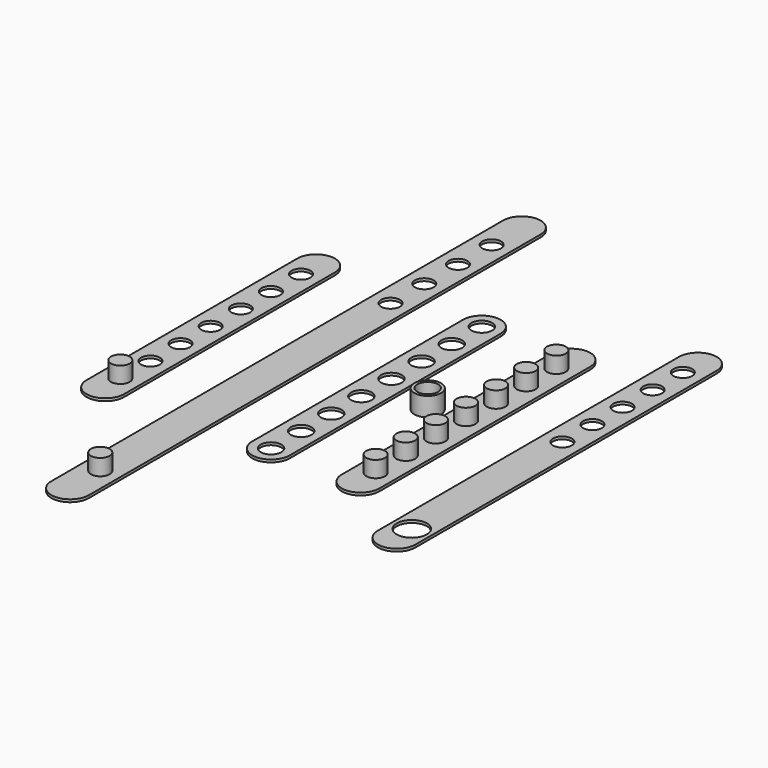
from build123d import *

# Parameters (mm, degrees)
F0_W      = 10
F0_H      = 150
F0_R      = 2.5
F1_DEPTH  = 0.7
F2_DEPTH  = 5
F0_H_2    = 70
F3_DEPTH  = 0.7
F4_DEPTH  = 5
F0_H_3    = 100
F0_R_2    = 4
F5_DEPTH  = 0.7
F0_R_3    = 2.75
F6_DEPTH  = 0.7
F7_DEPTH  = 0.7
F8_DEPTH  = 5
F0_R_4    = 3.55
F9_DEPTH  = 5
F10_DEPTH = 1


with BuildPart() as f1:
    # F0 (on Top) → F1 (new body)
    with BuildSketch(Plane.XY):
        with Locations((-35, 0)):
            Rectangle(F0_W, F0_H)
        with Locations((-35, -65)):
            Circle(F0_R, mode=Mode.SUBTRACT)
        with Locations((-35, 31.4)):
            Circle(F0_R, mode=Mode.SUBTRACT)
        with Locations((-35, 42.6)):
            Circle(F0_R, mode=Mode.SUBTRACT)
        with Locations((-35, 53.8)):
            Circle(F0_R, mode=Mode.SUBTRACT)
        with Locations((-35, 65)):
            Circle(F0_R, mode=Mode.SUBTRACT)
        with BuildLine():
            Line((-30, -75), (-40, -75))
            ThreePointArc((-40, -75), (-35, -80), (-30, -75))
        make_face()
        with BuildLine():
            ThreePointArc((-30, 75), (-35, 80), (-40, 75))
            Line((-40, 75), (-30, 75))
        make_face()
    extrude(amount=F1_DEPTH)

    # F0 (on Top) → F2 (join)
    with BuildSketch(Plane.XY):
        with Locations((-35, -65)):
            Circle(F0_R)
    extrude(amount=F2_DEPTH)


with BuildPart() as f3:
    # F0 (on Top) → F3 (new body)
    with BuildSketch(Plane.XY):
        with BuildLine():
            Line((-62.6663576066, 35), (-52.6663576066, 35))
            ThreePointArc((-52.6663576066, 35), (-57.6663576066, 40), (-62.6663576066, 35))
        make_face()
        with Locations((-57.6663576066, 0)):
            Rectangle(F0_W, F0_H_2)
        with Locations((-57.6663576066, -30)):
            Circle(F0_R, mode=Mode.SUBTRACT)
        with Locations((-57.6663576066, -20)):
            Circle(F0_R, mode=Mode.SUBTRACT)
        with Locations((-57.6663576066, -10)):
            Circle(F0_R, mode=Mode.SUBTRACT)
        with Locations((-57.6663576066, 0)):
            Circle(F0_R, mode=Mode.SUBTRACT)
        with Locations((-57.6663576066, 10)):
            Circle(F0_R, mode=Mode.SUBTRACT)
        with Locations((-57.6663576066, 20)):
            Circle(F0_R, mode=Mode.SUBTRACT)
        with Locations((-57.6663576066, 30)):
            Circle(F0_R, mode=Mode.SUBTRACT)
        with BuildLine():
            ThreePointArc((-62.6663576066, -35), (-57.6663576066, -40), (-52.6663576066, -35))
            Line((-52.6663576066, -35), (-62.6663576066, -35))
        make_face()
    extrude(amount=F3_DEPTH)

    # F0 (on Top) → F4 (join)
    with BuildSketch(Plane.XY):
        with Locations((-57.6663576066, -30)):
            Circle(F0_R)
    extrude(amount=F4_DEPTH)


with BuildPart() as f5:
    # F0 (on Top) → F5 (new body)
    with BuildSketch(Plane.XY):
        with Locations((31.768804026, 0)):
            Rectangle(F0_W, F0_H_3)
        with Locations((31.768804026, -45)):
            Circle(F0_R_2, mode=Mode.SUBTRACT)
        with Locations((31.768804026, 5)):
            Circle(F0_R, mode=Mode.SUBTRACT)
        with Locations((31.768804026, 15)):
            Circle(F0_R, mode=Mode.SUBTRACT)
        with Locations((31.768804026, 25)):
            Circle(F0_R, mode=Mode.SUBTRACT)
        with Locations((31.768804026, 35)):
            Circle(F0_R, mode=Mode.SUBTRACT)
        with Locations((31.768804026, 45)):
            Circle(F0_R, mode=Mode.SUBTRACT)
        with BuildLine():
            ThreePointArc((26.768804026, -50), (31.768804026, -55), (36.768804026, -50))
            Line((36.768804026, -50), (26.768804026, -50))
        make_face()
        with BuildLine():
            Line((26.768804026, 50), (36.768804026, 50))
            ThreePointArc((36.768804026, 50), (31.768804026, 55), (26.768804026, 50))
        make_face()
    extrude(amount=F5_DEPTH)


with BuildPart() as f6:
    # F0 (on Top) → F6 (new body)
    with BuildSketch(Plane.XY):
        with BuildLine():
            Line((-10.8792566359, 35), (-8.6292566359, 35))
            ThreePointArc((-8.6292566359, 35), (-13.6292566359, 40), (-18.6292566359, 35))
            Line((-18.6292566359, 35), (-16.3792566359, 35))
            ThreePointArc((-16.3792566359, 35), (-13.6292566359, 37.75), (-10.8792566359, 35))
        make_face()
        with BuildLine():
            Line((-8.6292566359, -35), (-8.6292566359, 35))
            Line((-8.6292566359, 35), (-10.8792566359, 35))
            ThreePointArc((-10.8792566359, 35), (-13.6292566359, 32.25), (-16.3792566359, 35))
            Line((-16.3792566359, 35), (-18.6292566359, 35))
            Line((-18.6292566359, 35), (-18.6292566359, -35))
            Line((-18.6292566359, -35), (-16.3792566359, -35))
            ThreePointArc((-16.3792566359, -35), (-13.6292566359, -32.25), (-10.8792566359, -35))
            Line((-10.8792566359, -35), (-8.6292566359, -35))
        make_face()
        with Locations((-13.6292566359, -25)):
            Circle(F0_R_3, mode=Mode.SUBTRACT)
        with Locations((-13.6292566359, -15)):
            Circle(F0_R_3, mode=Mode.SUBTRACT)
        with Locations((-13.6292566359, -5)):
            Circle(F0_R_3, mode=Mode.SUBTRACT)
        with Locations((-13.6292566359, 5)):
            Circle(F0_R_3, mode=Mode.SUBTRACT)
        with Locations((-13.6292566359, 15)):
            Circle(F0_R_3, mode=Mode.SUBTRACT)
        with Locations((-13.6292566359, 25)):
            Circle(F0_R_3, mode=Mode.SUBTRACT)
        with BuildLine():
            ThreePointArc((-18.6292566359, -35), (-13.6292566359, -40), (-8.6292566359, -35))
            Line((-8.6292566359, -35), (-10.8792566359, -35))
            ThreePointArc((-10.8792566359, -35), (-13.6292566359, -37.75), (-16.3792566359, -35))
            Line((-16.3792566359, -35), (-18.6292566359, -35))
        make_face()
    extrude(amount=F6_DEPTH)


with BuildPart() as f7:
    # F0 (on Top) → F7 (new body)
    with BuildSketch(Plane.XY):
        with BuildLine():
            Line((5.1667941734, 35), (15.1667941734, 35))
            ThreePointArc((15.1667941734, 35), (10.1667941734, 40), (5.1667941734, 35))
        make_face()
        with Locations((10.1667941734, 0)):
            Rectangle(F0_W, F0_H_2)
        with Locations((10.1667941734, -30)):
            Circle(F0_R, mode=Mode.SUBTRACT)
        with Locations((10.1667941734, -20.000000149)):
            Circle(F0_R, mode=Mode.SUBTRACT)
        with Locations((10.1667941734, -10.000000149)):
            Circle(F0_R, mode=Mode.SUBTRACT)
        with Locations((10.1667941734, -1.49e-07)):
            Circle(F0_R, mode=Mode.SUBTRACT)
        with Locations((10.1667941734, 9.999999851)):
            Circle(F0_R, mode=Mode.SUBTRACT)
        with Locations((10.1667941734, 20)):
            Circle(F0_R, mode=Mode.SUBTRACT)
        with Locations((10.1667941734, 30)):
            Circle(F0_R, mode=Mode.SUBTRACT)
        with BuildLine():
            ThreePointArc((5.1667941734, -35), (10.1667941734, -40), (15.1667941734, -35))
            Line((15.1667941734, -35), (5.1667941734, -35))
        make_face()
    extrude(amount=F7_DEPTH)

    # F0 (on Top) → F8 (join)
    with BuildSketch(Plane.XY):
        with Locations((10.1667941734, 30)):
            Circle(F0_R)
        with Locations((10.1667941734, 20)):
            Circle(F0_R)
        with Locations((10.1667941734, 9.999999851)):
            Circle(F0_R)
        with Locations((10.1667941734, -1.49e-07)):
            Circle(F0_R)
        with Locations((10.1667941734, -10.000000149)):
            Circle(F0_R)
        with Locations((10.1667941734, -20.000000149)):
            Circle(F0_R)
        with Locations((10.1667941734, -30)):
            Circle(F0_R)
    extrude(amount=F8_DEPTH)


with BuildPart() as f9:
    # F0 (on Top) → F9 (new body)
    with BuildSketch(Plane.XY):
        Circle(F0_R_4)
        Circle(F0_R_3, mode=Mode.SUBTRACT)
    extrude(amount=F9_DEPTH)

    # F0 (on Top) → F10 (join)
    with BuildSketch(Plane.XY):
        Circle(F0_R_3)
    extrude(amount=F10_DEPTH)


solid = Compound([f1.part, f3.part, f5.part, f6.part, f7.part, f9.part])
